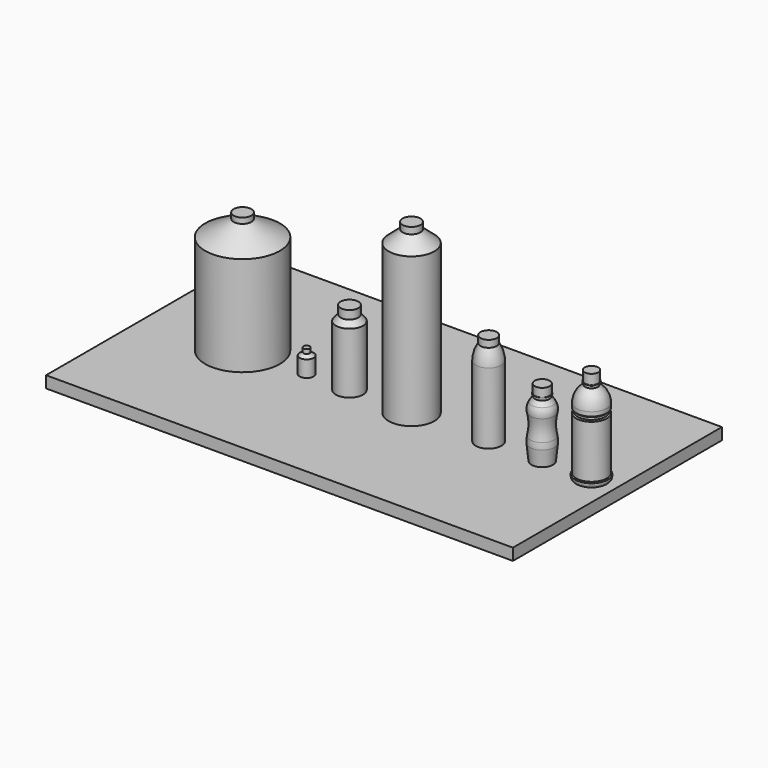
from build123d import *

# Parameters (mm, degrees)
F10_W     = 1000
F10_H     = 559.602202
F15_DEPTH = 25


with BuildPart() as f1:
    # F0 (on Front) → F1 (revolve)
    with BuildSketch(Plane.XZ):
        Polygon((48, 160), (29, 160), (29, 0), (58, 0), (58, 130), (48, 142), align=None)
    revolve(axis=Axis((29, 0, 80), (0, 0, -1)))


with BuildPart() as f3:
    # F2 (on Front) → F3 (revolve)
    with BuildSketch(Plane.XZ):
        Polygon((161.944975, 0), (161.944975, 360), (142.944975, 360), (142.944975, 346), (112.944975, 320), (112.944975, 0), align=None)
    revolve(axis=Axis((161.944975, 0, 180), (0, 0, -1)))


with BuildPart() as f5:
    # F4 (on Front) → F5 (revolve)
    with BuildSketch(Plane.XZ):
        Polygon((-280, 213.298264), (-280, 0), (-200, 0), (-200, 260), (-219, 260), (-219, 248), align=None)
    revolve(axis=Axis((-200, 0, 130), (0, 0, 1)))


with BuildPart() as f7:
    # F6 (on Front) → F7 (revolve)
    with BuildSketch(Plane.XZ):
        Polygon((-77.628386, 0), (-62.628386, 0), (-62.628386, 50), (-69.362436, 50), (-69.362436, 41), (-77.628386, 35), align=None)
    revolve(axis=Axis((-62.628386, 0, 25), (0, 0, 1)))


with BuildPart() as f9:
    # F8 (on Front) → F9 (revolve)
    with BuildSketch(Plane.XZ):
        with BuildLine():
            Line((299.605936, 152), (299.605936, 0))
            Line((299.605936, 0), (327.105936, 0))
            Line((327.105936, 0), (327.105936, 200))
            Line((327.105936, 200), (309.605936, 200))
            Line((309.605936, 200), (309.605936, 185))
            ThreePointArc((309.605936, 185), (302.160835, 169.24094), (299.605936, 152))
        make_face()
    revolve(axis=Axis((327.105936, 0, 100), (0, 0, 1)))


with BuildPart() as f12:
    # F11 (on Front) → F12 (revolve)
    with BuildSketch(Plane.XZ):
        with BuildLine():
            Line((415.449181, 34), (418.949181, 0))
            Line((418.949181, 0), (441.949181, 0))
            Line((441.949181, 0), (441.949181, 146))
            Line((441.949181, 146), (425.949181, 146))
            Line((425.949181, 146), (425.949181, 128))
            Line((425.949181, 128), (424.949181, 128))
            Line((424.949181, 128), (424.949181, 127))
            Line((424.949181, 127), (425.949181, 127))
            Line((425.949181, 127), (425.949181, 122))
            Line((425.949181, 122), (419.413513, 111.935953))
            ThreePointArc((419.413513, 111.935953), (415.789752, 102.629554), (416.168707, 92.64972))
            ThreePointArc((416.168707, 92.64972), (418.948328, 70.241672), (416.358787, 47.810864))
            ThreePointArc((416.358787, 47.810864), (415.321355, 40.943805), (415.449181, 34))
        make_face()
    revolve(axis=Axis((441.949181, 0, 73), (0, 0, 1)))


with BuildPart() as f14:
    # F13 (on Front) → F14 (revolve)
    with BuildSketch(Plane.XZ):
        with BuildLine():
            ThreePointArc((512.703172, 6), (514.934441, 1.276556), (520, 0))
            Line((520, 0), (547.5, 0))
            Line((547.5, 0), (547.5, 206))
            Line((547.5, 206), (533, 206))
            Line((533, 206), (533, 185))
            Line((533, 185), (532, 185))
            Line((532, 185), (532, 184))
            Line((532, 184), (534, 184))
            Line((534, 184), (534, 178))
            ThreePointArc((534, 178), (519.863604, 163.547171), (514.703172, 144))
            Line((514.703172, 144), (514.703172, 135))
            Line((514.703172, 135), (517.203172, 132.5))
            Line((517.203172, 132.5), (517.203172, 127.5))
            Line((517.203172, 127.5), (514.703172, 125))
            Line((514.703172, 125), (514.703172, 12))
            Line((514.703172, 12), (512.703172, 10))
            Line((512.703172, 10), (512.703172, 6))
        make_face()
    revolve(axis=Axis((547.5, 0, 103), (0, 0, 1)))


with BuildPart() as f15:
    # F10 (on Top) → F15 (new body)
    with BuildSketch(Plane.XY):
        with Locations((100, 3.764607)):
            Rectangle(F10_W, F10_H)
        with Locations((100, 3.764607)):
            Rectangle(F10_W, F10_H)
    extrude(amount=-F15_DEPTH)


solid = Compound([f1.part, f3.part, f5.part, f7.part, f9.part, f12.part, f14.part, f15.part])
